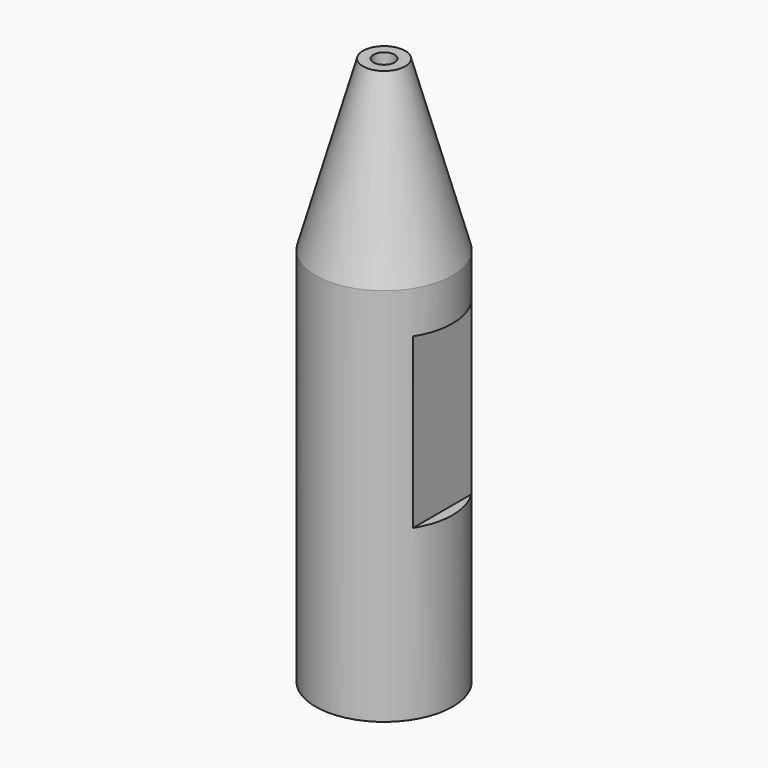
from build123d import *

# Parameters (mm, degrees)
F2_W     = 0.79375
F2_H     = 12.7
F3_DEPTH = 12.7


with BuildPart() as f1:
    # F0 (on Front) → F1 (revolve)
    with BuildSketch(Plane.XZ):
        Polygon((3.571875, 0), (5.159375, 0), (5.159375, 28.575), (1.5875, 41.275), (0.79375, 41.275), (0.79375, 2.778125), align=None)
    revolve(axis=Axis((0, 0, 23.459722), (0, 0, -1)))

    # F2 (on Front) → F3 (cut, symmetric)
    with BuildSketch(Plane.XZ):
        with Locations((-4.7625, 19.05)):
            Rectangle(F2_W, F2_H)
        with Locations((4.7625, 19.05)):
            Rectangle(F2_W, F2_H)
    extrude(amount=F3_DEPTH, both=True, mode=Mode.SUBTRACT)


solid = f1.part
